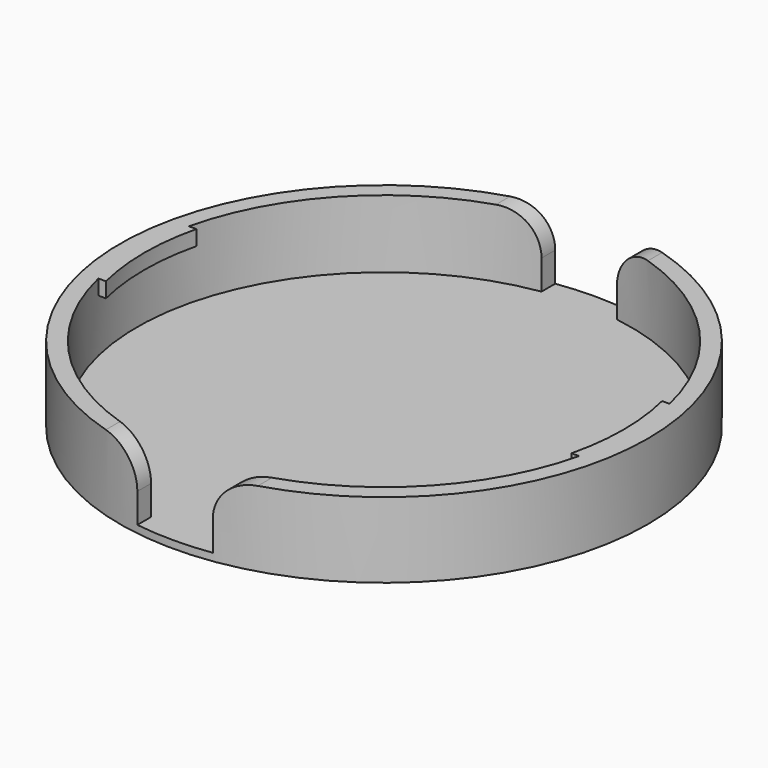
from build123d import *

# Parameters (mm, degrees)
F0_R     = 35
F1_DEPTH = 1
F2_R     = 35
F2_R_2   = 32.75
F3_DEPTH = 9
F5_DEPTH = 2
F6_W     = 10
F6_H     = 76.2
F7_DEPTH = 25.4
F8_R     = 5.08


with BuildPart() as f1:
    # F0 (on Top) → F1 (new body)
    with BuildSketch(Plane.XY):
        Circle(F0_R)
    extrude(amount=-F1_DEPTH)

    # F2 (on Top) → F3 (join)
    with BuildSketch(Plane.XY):
        Circle(F2_R)
        Circle(F2_R_2, mode=Mode.SUBTRACT)
    extrude(amount=F3_DEPTH)

    # F4 (on face) → F5 (join)
    with BuildSketch(Plane.XY.offset(9)):
        with BuildLine():
            ThreePointArc((-31.8796565226, 7.5), (-32.531686485, 3.7751654854), (-32.75, 0))
            ThreePointArc((-32.75, 0), (-32.531686485, -3.7751654854), (-31.8796565226, -7.5))
            Line((-31.8796565226, -7.5), (-30.8796565226, -7.5))
            ThreePointArc((-30.8796565226, -7.5), (-31.7774005695, 0), (-30.8796565226, 7.5))
            Line((-30.8796565226, 7.5), (-31.8796565226, 7.5))
        make_face()
        with BuildLine():
            Line((30.8796565226, -7.5), (31.8796565226, -7.5))
            ThreePointArc((31.8796565226, -7.5), (32.531686485, -3.7751654854), (32.75, 0))
            ThreePointArc((32.75, 0), (32.531686485, 3.7751654854), (31.8796565226, 7.5))
            Line((31.8796565226, 7.5), (30.8796565226, 7.5))
            ThreePointArc((30.8796565226, 7.5), (31.7774005695, 0), (30.8796565226, -7.5))
        make_face()
    extrude(amount=-F5_DEPTH)

    # F6 (on Top) → F7 (cut)
    with BuildSketch(Plane.XY):
        Rectangle(F6_W, F6_H)
    extrude(amount=F7_DEPTH, mode=Mode.SUBTRACT)

    # F8
    f8_edges = [f1.edges().sort_by_distance(p)[0] for p in [
        (-5, 33.503543, 9),
        (-5, -33.503543, 9),
        (5, -33.503543, 9),
        (5, 33.503543, 9),
    ]]
    fillet(f8_edges, radius=F8_R)


solid = f1.part
